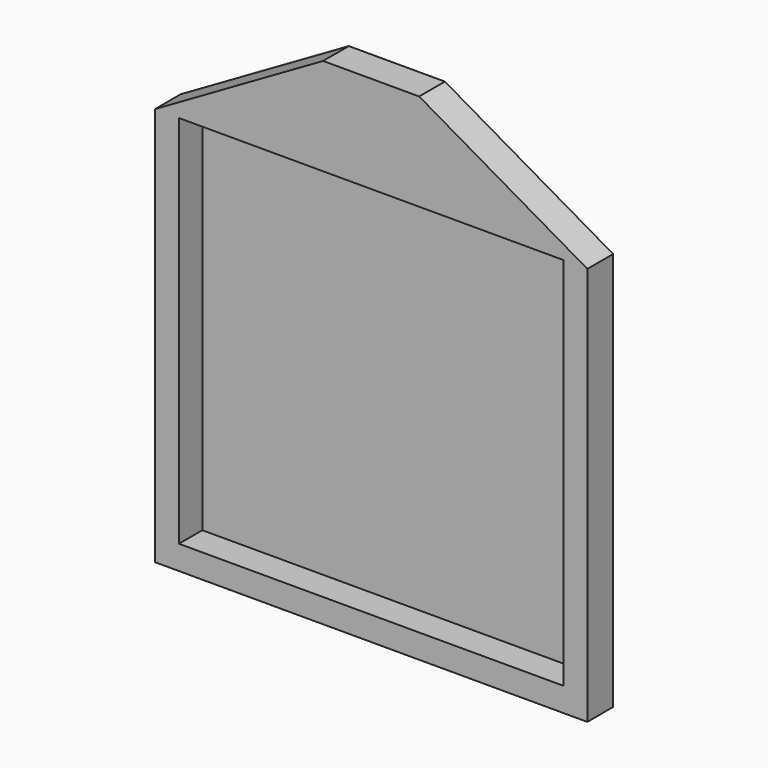
from build123d import *

# Parameters (mm, degrees)
F0_W     = 800
F0_H     = 780
F1_DEPTH = 67
F2_W     = 800
F2_H     = 780
F3_DEPTH = 6


with BuildPart() as f1:
    # F0 (on Front) → F1 (new body)
    with BuildSketch(Plane.XZ):
        Polygon((-450, -415), (450, -415), (450, 415), (100, 617.072594), (-100, 617.072594), (-450, 415), align=None)
        with Locations((0, 25)):
            Rectangle(F0_W, F0_H, mode=Mode.SUBTRACT)
    extrude(amount=F1_DEPTH)


with BuildPart() as f3:
    # F2 (on face) → F3 (new body)
    with BuildSketch(Plane(origin=(0, 0, 0), x_dir=(-1, 0, 0), z_dir=(0, 1, 0))):
        with Locations((0, 25)):
            Rectangle(F2_W, F2_H)
    extrude(amount=-F3_DEPTH)


solid = Compound([f1.part, f3.part])
